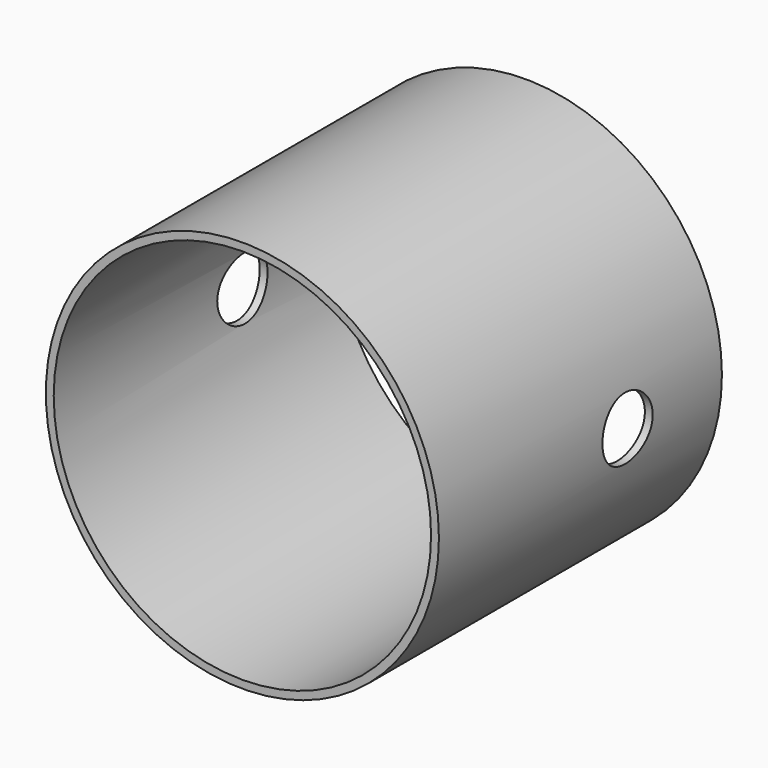
from build123d import *

# Parameters (mm, degrees)
F0_R   = 25
F0_R_2 = 24
F3_R   = 4


with BuildPart() as f2:
    # F2: sweep along a path in F1
    with BuildLine(Plane.YZ) as f2_path:
        Line((0, 0), (-45, 0))
    # F0 (on Front) → F2 (sweep)
    with BuildSketch(Plane.XZ):
        Circle(F0_R)
        Circle(F0_R_2, mode=Mode.SUBTRACT)
    sweep(path=f2_path.line)

    # F5: sweep along a path in F4
    with BuildLine(Plane.XY) as f5_path:
        Line((40, -15), (-40, -15))
    # F3 (on Right) → F5 (sweep, cut)
    with BuildSketch(Plane.YZ):
        with Locations((-15, 0)):
            Circle(F3_R)
    sweep(path=f5_path.line, mode=Mode.SUBTRACT)


solid = f2.part
